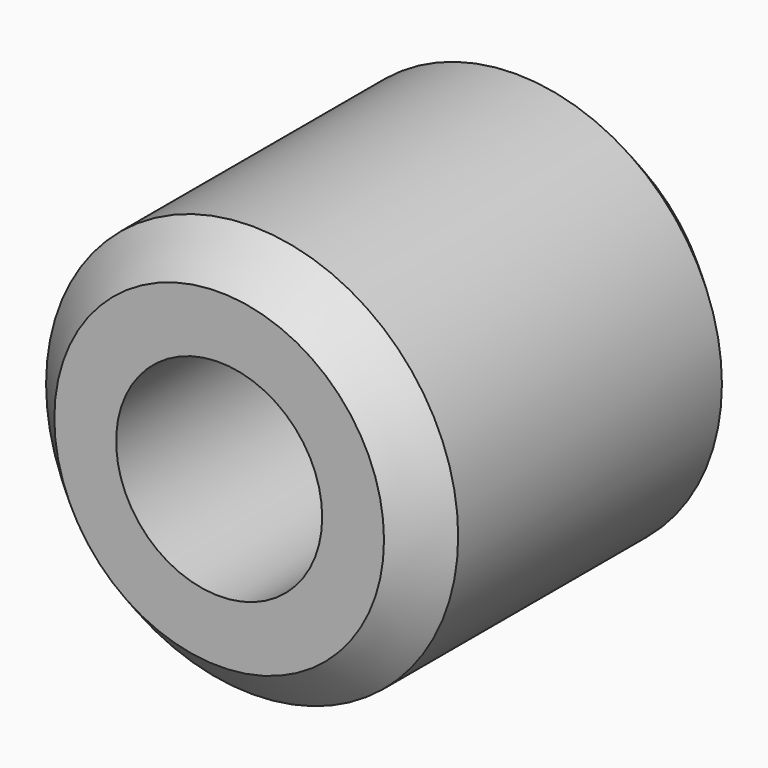
from build123d import *

# Parameters (mm, degrees)
F0_R     = 25.4
F1_DEPTH = 50.8
F2_SIZE  = 5.08
F3_SIZE  = 5.08
F4_R     = 12.7
F5_DEPTH = 50.8


with BuildPart() as f1:
    # F0 (on Front) → F1 (new body)
    with BuildSketch(Plane.XZ):
        Circle(F0_R)
    extrude(amount=F1_DEPTH)

    # F2
    f2_edges = [f1.edges().sort_by_distance(p)[0] for p in [
        (-25.4, -50.8, 0),
    ]]
    chamfer(f2_edges, length=F2_SIZE)

    # F3
    f3_edges = [f1.edges().sort_by_distance(p)[0] for p in [
        (-25.4, 0, 0),
    ]]
    chamfer(f3_edges, length=F3_SIZE)

    # F4 (on Front) → F5 (cut)
    with BuildSketch(Plane.XZ):
        Circle(F4_R)
    extrude(amount=F5_DEPTH, mode=Mode.SUBTRACT)


solid = f1.part
